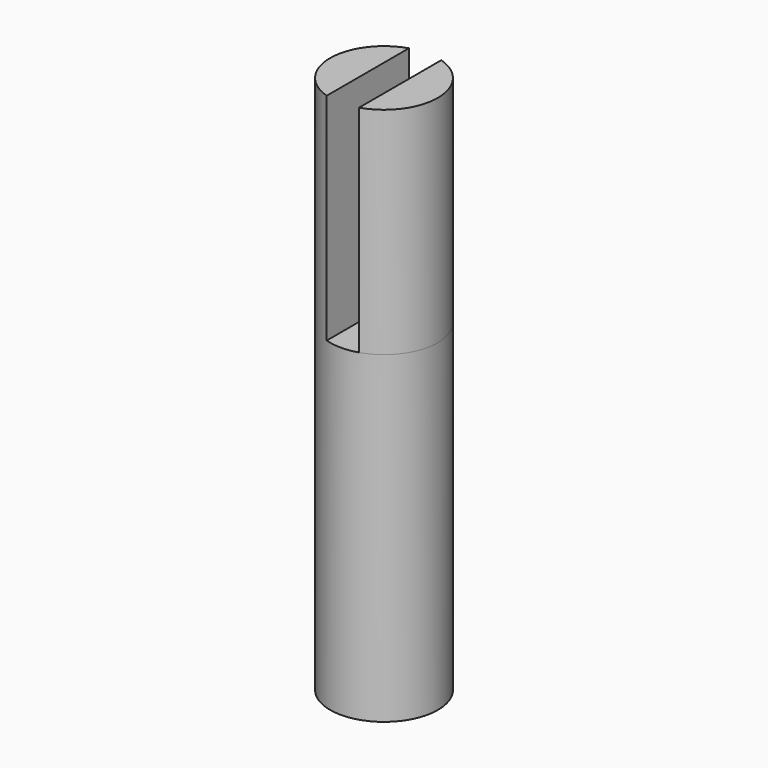
from build123d import *

# Parameters (mm, degrees)
SKETCH_R     = 2.5
PAD_DEPTH    = 15
PAD001_DEPTH = 10


with BuildPart() as part:
    # Sketch → Pad (new body)
    with BuildSketch(Plane.XY):
        Circle(SKETCH_R)
    extrude(amount=PAD_DEPTH)

    # Sketch001 (on Face3 of Pad) → Pad001 (join)
    with BuildSketch(Plane.XY.offset(15)):
        with BuildLine():
            ThreePointArc((-0.75, 2.384848), (-2.5, 0), (-0.75, -2.384848))
            Line((-0.75, -2.384848), (-0.75, 2.384848))
        make_face()
        with BuildLine():
            Line((0.75, 2.384848), (0.75, -2.384848))
            ThreePointArc((0.75, -2.384848), (2.5, 0), (0.75, 2.384848))
        make_face()
    extrude(amount=PAD001_DEPTH)


solid = part.part
